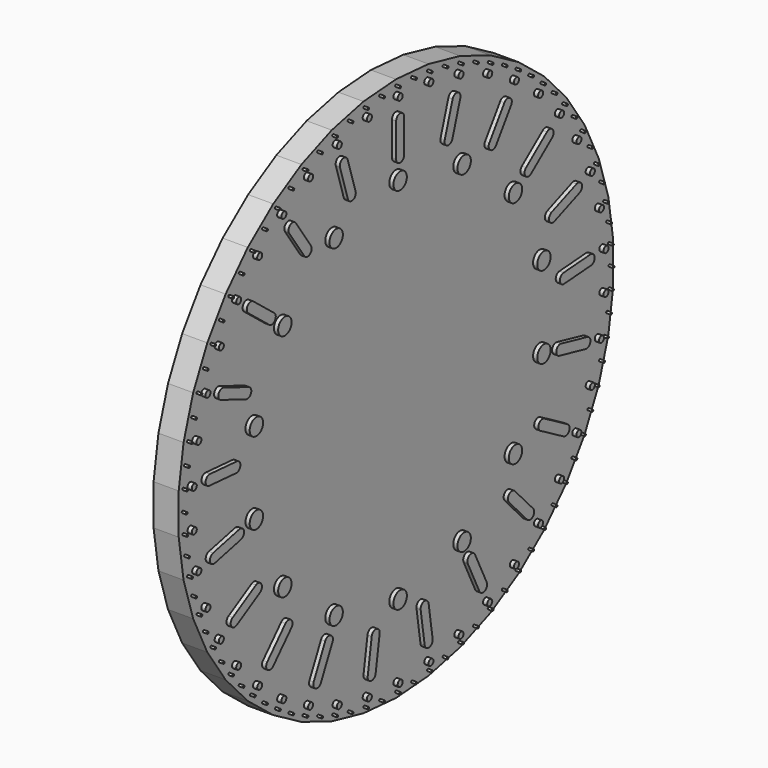
from build123d import *

# Parameters (mm, degrees)
F1_DEPTH = 76.2
F2_R     = 9.525
F2_R_2   = 25.4
F2_R_3   = 3.175
F3_DEPTH = 12.7


with BuildPart() as f1:
    # F0 (on Right) → F1 (new body)
    with BuildSketch(Plane.YZ):
        Polygon((768.43628, 301.589016), (714.903971, 412.75), (645.401889, 514.690831), (561.482595, 605.13432), (465.020708, 682.060108), (358.171027, 743.7498), (243.320396, 788.825351), (123.034391, 816.279847), (0, 825.5), (-123.034391, 816.279847), (-243.320396, 788.825351), (-358.171027, 743.7498), (-465.020708, 682.060108), (-561.482595, 605.13432), (-645.401889, 514.690831), (-714.903971, 412.75), (-768.43628, 301.589016), (-804.802992, 183.691031), (-823.191735, 61.689692), (-823.191735, -61.689692), (-804.802992, -183.691031), (-768.43628, -301.589016), (-714.903971, -412.75), (-645.401889, -514.690831), (-561.482595, -605.13432), (-465.020708, -682.060108), (-358.171027, -743.7498), (-243.320396, -788.825351), (-123.034391, -816.279847), (0, -825.5), (123.034391, -816.279847), (243.320396, -788.825351), (358.171027, -743.7498), (465.020708, -682.060108), (561.482595, -605.13432), (645.401889, -514.690831), (714.903971, -412.75), (768.43628, -301.589016), (804.802992, -183.691031), (823.191735, -61.689692), (823.191735, 61.689692), (804.802992, 183.691031), align=None)
    extrude(amount=F1_DEPTH)

    # F2 (on face) → F3 (join)
    with BuildSketch(Plane.YZ.offset(76.2)):
        with BuildLine():
            Line((15.24, 622.3), (15.24, 723.9))
            ThreePointArc((15.24, 723.9), (10.776307, 734.676307), (0, 739.14))
            ThreePointArc((0, 739.14), (-10.776307, 734.676307), (-15.24, 723.9))
            Line((-15.24, 723.9), (-15.24, 622.3))
            ThreePointArc((-15.24, 622.3), (0, 607.06), (15.24, 622.3))
        make_face()
        with BuildLine():
            ThreePointArc((227.9362, 687.247085), (217.86534, 706.302084), (198.810341, 696.231223))
            Line((198.810341, 696.231223), (168.863216, 599.145026))
            ThreePointArc((168.863216, 599.145026), (178.934076, 580.090027), (197.989075, 590.160888))
            Line((197.989075, 590.160888), (227.9362, 687.247085))
        make_face()
        with BuildLine():
            ThreePointArc((420.379269, 589.529251), (416.372388, 610.706128), (395.195511, 606.699246))
            Line((395.195511, 606.699246), (337.962193, 522.753387))
            ThreePointArc((337.962193, 522.753387), (341.969075, 501.57651), (363.145951, 505.583391))
            Line((363.145951, 505.583391), (420.379269, 589.529251))
        make_face()
        with BuildLine():
            ThreePointArc((575.469795, 439.429155), (577.882922, 460.846252), (556.465826, 463.259379))
            Line((556.465826, 463.259379), (477.031747, 399.912815))
            ThreePointArc((477.031747, 399.912815), (474.61862, 378.495719), (496.035716, 376.082592))
            Line((496.035716, 376.082592), (575.469795, 439.429155))
        make_face()
        with BuildLine():
            ThreePointArc((679.427304, 250.283851), (688.046023, 270.038164), (668.29171, 278.656883))
            Line((668.29171, 278.656883), (573.714937, 241.538235))
            ThreePointArc((573.714937, 241.538235), (565.096218, 221.783922), (584.850531, 213.165203))
            Line((584.850531, 213.165203), (679.427304, 250.283851))
        make_face()
        with BuildLine():
            ThreePointArc((723.014715, 38.899728), (737.073215, 55.236001), (720.736942, 69.2945))
            Line((720.736942, 69.2945), (619.421036, 61.701923))
            ThreePointArc((619.421036, 61.701923), (605.362537, 45.36565), (621.69881, 31.307151))
            Line((621.69881, 31.307151), (723.014715, 38.899728))
        make_face()
        with BuildLine():
            ThreePointArc((702.359096, -175.940806), (720.608217, -164.474124), (709.141535, -146.225003))
            Line((709.141535, -146.225003), (610.088859, -123.616876))
            ThreePointArc((610.088859, -123.616876), (591.839738, -135.083559), (603.306421, -153.332679))
            Line((603.306421, -153.332679), (702.359096, -175.940806))
        make_face()
        with BuildLine():
            ThreePointArc((619.295789, -375.148228), (640.114017, -369.570001), (634.535789, -348.751774))
            Line((634.535789, -348.751774), (546.547608, -297.951773))
            ThreePointArc((546.547608, -297.951773), (525.729381, -303.530001), (531.307608, -324.348228))
            Line((531.307608, -324.348228), (619.295789, -375.148228))
        make_face()
        with BuildLine():
            ThreePointArc((481.205334, -541.022083), (502.742877, -541.827961), (503.548755, -520.290418))
            Line((503.548755, -520.290418), (434.443205, -445.812348))
            ThreePointArc((434.443205, -445.812348), (412.905662, -445.00647), (412.099784, -466.544013))
            Line((412.099784, -466.544013), (481.205334, -541.022083))
        make_face()
        with BuildLine():
            ThreePointArc((300.357672, -658.823752), (320.700826, -665.942129), (327.819203, -645.598976))
            Line((327.819203, -645.598976), (283.736616, -554.060539))
            ThreePointArc((283.736616, -554.060539), (263.393462, -546.942161), (256.275084, -567.285315))
            Line((256.275084, -567.285315), (300.357672, -658.823752))
        make_face()
        with BuildLine():
            ThreePointArc((92.821914, -718.086039), (110.163099, -730.884417), (122.961477, -713.543231))
            Line((122.961477, -713.543231), (107.818783, -613.078019))
            ThreePointArc((107.818783, -613.078019), (90.477597, -600.279642), (77.679219, -617.620827))
            Line((77.679219, -617.620827), (92.821914, -718.086039))
        make_face()
        with BuildLine():
            ThreePointArc((-122.96148, -713.543231), (-110.163102, -730.884417), (-92.821916, -718.086039))
            Line((-92.821916, -718.086039), (-77.679222, -617.620827))
            ThreePointArc((-77.679222, -617.620827), (-90.477599, -600.279641), (-107.818785, -613.078019))
            Line((-107.818785, -613.078019), (-122.96148, -713.543231))
        make_face()
        with BuildLine():
            ThreePointArc((-327.819206, -645.598975), (-320.700828, -665.942128), (-300.357674, -658.823751))
            Line((-300.357674, -658.823751), (-256.275086, -567.285314))
            ThreePointArc((-256.275086, -567.285314), (-263.393464, -546.94216), (-283.736617, -554.060538))
            Line((-283.736617, -554.060538), (-327.819206, -645.598975))
        make_face()
        with BuildLine():
            ThreePointArc((-503.548756, -520.290416), (-502.742879, -541.82796), (-481.205335, -541.022082))
            Line((-481.205335, -541.022082), (-412.099785, -466.544012))
            ThreePointArc((-412.099785, -466.544012), (-412.905663, -445.006468), (-434.443206, -445.812346))
            Line((-434.443206, -445.812346), (-503.548756, -520.290416))
        make_face()
        with BuildLine():
            ThreePointArc((-634.535791, -348.751771), (-640.114018, -369.569999), (-619.295791, -375.148226))
            Line((-619.295791, -375.148226), (-531.307609, -324.348226))
            ThreePointArc((-531.307609, -324.348226), (-525.729382, -303.529999), (-546.547609, -297.951772))
            Line((-546.547609, -297.951772), (-634.535791, -348.751771))
        make_face()
        with BuildLine():
            ThreePointArc((-709.141535, -146.225001), (-720.608217, -164.474121), (-702.359097, -175.940804))
            Line((-702.359097, -175.940804), (-603.306421, -153.332677))
            ThreePointArc((-603.306421, -153.332677), (-591.839739, -135.083557), (-610.088859, -123.616874))
            Line((-610.088859, -123.616874), (-709.141535, -146.225001))
        make_face()
        with BuildLine():
            ThreePointArc((-720.736942, 69.294502), (-737.073215, 55.236003), (-723.014715, 38.899731))
            Line((-723.014715, 38.899731), (-621.69881, 31.307153))
            ThreePointArc((-621.69881, 31.307153), (-605.362537, 45.365652), (-619.421036, 61.701925))
            Line((-619.421036, 61.701925), (-720.736942, 69.294502))
        make_face()
        with BuildLine():
            ThreePointArc((-668.291709, 278.656885), (-688.046022, 270.038167), (-679.427303, 250.283853))
            Line((-679.427303, 250.283853), (-584.85053, 213.165205))
            ThreePointArc((-584.85053, 213.165205), (-565.096217, 221.783924), (-573.714936, 241.538237))
            Line((-573.714936, 241.538237), (-668.291709, 278.656885))
        make_face()
        with BuildLine():
            ThreePointArc((-556.465824, 463.259381), (-577.882921, 460.846254), (-575.469793, 439.429157))
            Line((-575.469793, 439.429157), (-496.035715, 376.082593))
            ThreePointArc((-496.035715, 376.082593), (-474.618619, 378.49572), (-477.031746, 399.912817))
            Line((-477.031746, 399.912817), (-556.465824, 463.259381))
        make_face()
        with BuildLine():
            ThreePointArc((-395.195509, 606.699248), (-416.372386, 610.706129), (-420.379267, 589.529252))
            Line((-420.379267, 589.529252), (-363.14595, 505.583393))
            ThreePointArc((-363.14595, 505.583393), (-341.969073, 501.576511), (-337.962192, 522.753388))
            Line((-337.962192, 522.753388), (-395.195509, 606.699248))
        make_face()
        with BuildLine():
            ThreePointArc((-198.810339, 696.231224), (-217.865337, 706.302084), (-227.936198, 687.247086))
            Line((-227.936198, 687.247086), (-197.989073, 590.160889))
            ThreePointArc((-197.989073, 590.160889), (-178.934074, 580.090028), (-168.863214, 599.145026))
            Line((-168.863214, 599.145026), (-198.810339, 696.231224))
        make_face()
        with Locations((-116.598746, 773.582132)):
            Circle(F2_R)
        with Locations((-230.592868, 747.563717)):
            Circle(F2_R)
        with Locations((-339.435927, 704.845965)):
            Circle(F2_R)
        with Locations((-440.696548, 646.383118)):
            Circle(F2_R)
        with Locations((-532.112736, 573.48114)):
            Circle(F2_R)
        with Locations((-611.642405, 487.768542)):
            Circle(F2_R)
        with Locations((-677.508994, 391.16)):
            Circle(F2_R)
        with Locations((-728.241151, 285.81359)):
            Circle(F2_R)
        with Locations((-762.705604, 174.082577)):
            Circle(F2_R)
        with Locations((-780.132475, 58.462847)):
            Circle(F2_R)
        with Locations((-780.132475, -58.462847)):
            Circle(F2_R)
        with Locations((-762.705604, -174.082577)):
            Circle(F2_R)
        with Locations((-728.241151, -285.81359)):
            Circle(F2_R)
        with Locations((-677.508994, -391.16)):
            Circle(F2_R)
        with Locations((-611.642405, -487.768542)):
            Circle(F2_R)
        with Locations((-532.112736, -573.48114)):
            Circle(F2_R)
        with Locations((-440.696548, -646.383118)):
            Circle(F2_R)
        with Locations((-339.435927, -704.845965)):
            Circle(F2_R)
        with Locations((-230.592868, -747.563717)):
            Circle(F2_R)
        with Locations((-116.598746, -773.582132)):
            Circle(F2_R)
        with Locations((0, -782.32)):
            Circle(F2_R)
        with Locations((116.598746, -773.582132)):
            Circle(F2_R)
        with Locations((230.592868, -747.563717)):
            Circle(F2_R)
        with Locations((339.435927, -704.845965)):
            Circle(F2_R)
        with Locations((440.696548, -646.383118)):
            Circle(F2_R)
        with Locations((532.112736, -573.48114)):
            Circle(F2_R)
        with Locations((611.642405, -487.768542)):
            Circle(F2_R)
        with Locations((677.508994, -391.16)):
            Circle(F2_R)
        with Locations((728.241151, -285.81359)):
            Circle(F2_R)
        with Locations((762.705604, -174.082577)):
            Circle(F2_R)
        with Locations((780.132475, -58.462847)):
            Circle(F2_R)
        with Locations((780.132475, 58.462847)):
            Circle(F2_R)
        with Locations((762.705604, 174.082577)):
            Circle(F2_R)
        with Locations((728.241151, 285.81359)):
            Circle(F2_R)
        with Locations((677.508994, 391.16)):
            Circle(F2_R)
        with Locations((611.642405, 487.768542)):
            Circle(F2_R)
        with Locations((532.112736, 573.48114)):
            Circle(F2_R)
        with Locations((440.696548, 646.383118)):
            Circle(F2_R)
        with Locations((339.435927, 704.845965)):
            Circle(F2_R)
        with Locations((230.592868, 747.563717)):
            Circle(F2_R)
        with Locations((116.598746, 773.582132)):
            Circle(F2_R)
        with Locations((0, 558.8)):
            Circle(F2_R_2)
        with Locations((-242.454233, 503.461403)):
            Circle(F2_R_2)
        with Locations((-436.887432, 348.406101)):
            Circle(F2_R_2)
        with Locations((-544.789717, 124.344698)):
            Circle(F2_R_2)
        with Locations((-544.789717, -124.344698)):
            Circle(F2_R_2)
        with Locations((-436.887432, -348.406101)):
            Circle(F2_R_2)
        with Locations((-242.454233, -503.461403)):
            Circle(F2_R_2)
        with Locations((0, -558.8)):
            Circle(F2_R_2)
        with Locations((242.454233, -503.461403)):
            Circle(F2_R_2)
        with Locations((436.887432, -348.406101)):
            Circle(F2_R_2)
        with Locations((544.789717, -124.344698)):
            Circle(F2_R_2)
        with Locations((544.789717, 124.344698)):
            Circle(F2_R_2)
        with Locations((436.887432, 348.406101)):
            Circle(F2_R_2)
        with Locations((242.454233, 503.461403)):
            Circle(F2_R_2)
        with Locations((0, 808.6725)):
            Circle(F2_R_3)
        with BuildLine():
            ThreePointArc((0, 772.795), (9.525, 782.32), (0, 791.845))
            ThreePointArc((0, 791.845), (-9.525, 782.32), (0, 772.795))
        make_face()
        with Locations((-60.432172, 806.411288)):
            Circle(F2_R_3)
        with Locations((-120.526382, 799.640296)):
            Circle(F2_R_3)
        with Locations((-179.94656, 788.397392)):
            Circle(F2_R_3)
        with Locations((-238.360404, 772.74545)):
            Circle(F2_R_3)
        with Locations((-295.44124, 752.772002)):
            Circle(F2_R_3)
        with Locations((-350.869848, 728.588747)):
            Circle(F2_R_3)
        with Locations((-404.33625, 700.330928)):
            Circle(F2_R_3)
        with Locations((-455.54144, 668.156575)):
            Circle(F2_R_3)
        with Locations((-504.199057, 632.24562)):
            Circle(F2_R_3)
        with Locations((-550.036988, 592.79889)):
            Circle(F2_R_3)
        with Locations((-592.79889, 550.036988)):
            Circle(F2_R_3)
        with Locations((-632.24562, 504.199057)):
            Circle(F2_R_3)
        with Locations((-668.156575, 455.54144)):
            Circle(F2_R_3)
        with Locations((-700.330928, 404.33625)):
            Circle(F2_R_3)
        with Locations((-728.588747, 350.869848)):
            Circle(F2_R_3)
        with Locations((-752.772002, 295.44124)):
            Circle(F2_R_3)
        with Locations((-772.74545, 238.360404)):
            Circle(F2_R_3)
        with Locations((-788.397392, 179.94656)):
            Circle(F2_R_3)
        with Locations((-799.640296, 120.526382)):
            Circle(F2_R_3)
        with Locations((-806.411288, 60.432172)):
            Circle(F2_R_3)
        with Locations((-808.6725, 0)):
            Circle(F2_R_3)
        with Locations((-806.411288, -60.432172)):
            Circle(F2_R_3)
        with Locations((-799.640296, -120.526382)):
            Circle(F2_R_3)
        with Locations((-788.397392, -179.94656)):
            Circle(F2_R_3)
        with Locations((-772.74545, -238.360404)):
            Circle(F2_R_3)
        with Locations((-752.772002, -295.44124)):
            Circle(F2_R_3)
        with Locations((-728.588747, -350.869848)):
            Circle(F2_R_3)
        with Locations((-700.330928, -404.33625)):
            Circle(F2_R_3)
        with Locations((-668.156575, -455.54144)):
            Circle(F2_R_3)
        with Locations((-632.24562, -504.199057)):
            Circle(F2_R_3)
        with Locations((-592.79889, -550.036988)):
            Circle(F2_R_3)
        with Locations((-550.036988, -592.79889)):
            Circle(F2_R_3)
        with Locations((-504.199057, -632.24562)):
            Circle(F2_R_3)
        with Locations((-455.54144, -668.156575)):
            Circle(F2_R_3)
        with Locations((-404.33625, -700.330928)):
            Circle(F2_R_3)
        with Locations((-350.869848, -728.588747)):
            Circle(F2_R_3)
        with Locations((-295.44124, -752.772002)):
            Circle(F2_R_3)
        with Locations((-238.360404, -772.74545)):
            Circle(F2_R_3)
        with Locations((-179.94656, -788.397392)):
            Circle(F2_R_3)
        with Locations((-120.526382, -799.640296)):
            Circle(F2_R_3)
        with Locations((-60.432172, -806.411288)):
            Circle(F2_R_3)
        with Locations((0, -808.6725)):
            Circle(F2_R_3)
        with Locations((60.432172, -806.411288)):
            Circle(F2_R_3)
        with Locations((120.526382, -799.640296)):
            Circle(F2_R_3)
        with Locations((179.94656, -788.397392)):
            Circle(F2_R_3)
        with Locations((238.360404, -772.74545)):
            Circle(F2_R_3)
        with Locations((295.44124, -752.772002)):
            Circle(F2_R_3)
        with Locations((350.869848, -728.588747)):
            Circle(F2_R_3)
        with Locations((404.33625, -700.330928)):
            Circle(F2_R_3)
        with Locations((455.54144, -668.156575)):
            Circle(F2_R_3)
        with Locations((504.199057, -632.24562)):
            Circle(F2_R_3)
        with Locations((550.036988, -592.79889)):
            Circle(F2_R_3)
        with Locations((592.79889, -550.036988)):
            Circle(F2_R_3)
        with Locations((632.24562, -504.199057)):
            Circle(F2_R_3)
        with Locations((668.156575, -455.54144)):
            Circle(F2_R_3)
        with Locations((700.330928, -404.33625)):
            Circle(F2_R_3)
        with Locations((728.588747, -350.869848)):
            Circle(F2_R_3)
        with Locations((752.772002, -295.44124)):
            Circle(F2_R_3)
        with Locations((772.74545, -238.360404)):
            Circle(F2_R_3)
        with Locations((788.397392, -179.94656)):
            Circle(F2_R_3)
        with Locations((799.640296, -120.526382)):
            Circle(F2_R_3)
        with Locations((806.411288, -60.432172)):
            Circle(F2_R_3)
        with Locations((808.6725, 0)):
            Circle(F2_R_3)
        with Locations((806.411288, 60.432172)):
            Circle(F2_R_3)
        with Locations((799.640296, 120.526382)):
            Circle(F2_R_3)
        with Locations((788.397392, 179.94656)):
            Circle(F2_R_3)
        with Locations((772.74545, 238.360404)):
            Circle(F2_R_3)
        with Locations((752.772002, 295.44124)):
            Circle(F2_R_3)
        with Locations((728.588747, 350.869848)):
            Circle(F2_R_3)
        with Locations((700.330928, 404.33625)):
            Circle(F2_R_3)
        with Locations((668.156575, 455.54144)):
            Circle(F2_R_3)
        with Locations((632.24562, 504.199057)):
            Circle(F2_R_3)
        with Locations((592.79889, 550.036988)):
            Circle(F2_R_3)
        with Locations((550.036988, 592.79889)):
            Circle(F2_R_3)
        with Locations((504.199057, 632.24562)):
            Circle(F2_R_3)
        with Locations((455.54144, 668.156575)):
            Circle(F2_R_3)
        with Locations((404.33625, 700.330928)):
            Circle(F2_R_3)
        with Locations((350.869848, 728.588747)):
            Circle(F2_R_3)
        with Locations((295.44124, 752.772002)):
            Circle(F2_R_3)
        with Locations((238.360404, 772.74545)):
            Circle(F2_R_3)
        with Locations((179.94656, 788.397392)):
            Circle(F2_R_3)
        with Locations((120.526382, 799.640296)):
            Circle(F2_R_3)
        with Locations((60.432172, 806.411288)):
            Circle(F2_R_3)
    extrude(amount=F3_DEPTH)


solid = f1.part
